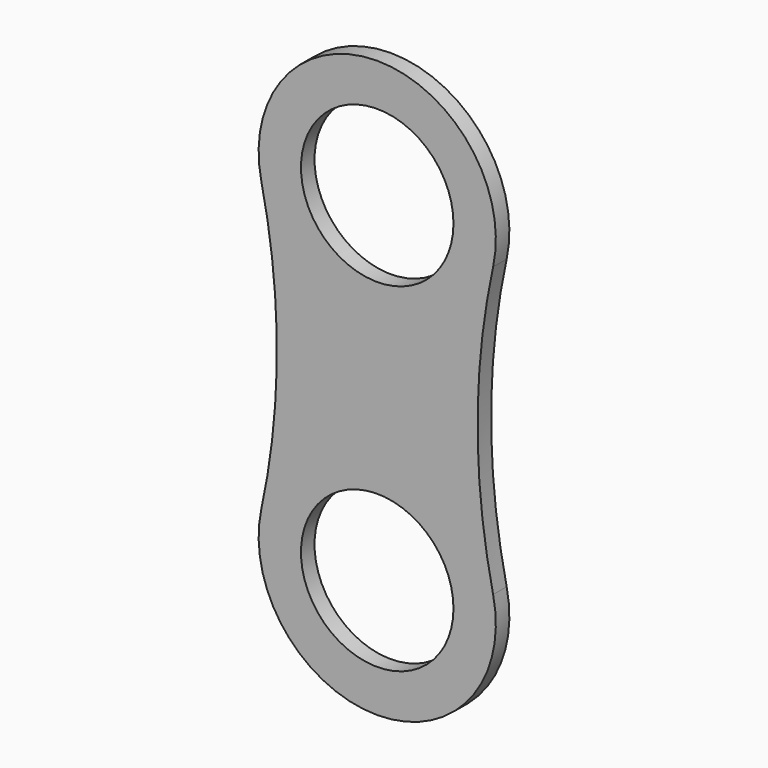
from build123d import *

# Parameters (mm, degrees)
F0_R     = 114.3
F1_DEPTH = 25.4


with BuildPart() as f1:
    # F0 (on Front) → F1 (new body)
    with BuildSketch(Plane.XZ):
        with BuildLine():
            ThreePointArc((173.728947, -256.228031), (150.46579, -40.057818), (173.728947, 176.112394))
            ThreePointArc((173.728947, 176.112394), (0, 391.742182), (-173.728947, 176.112394))
            ThreePointArc((-173.728947, 176.112394), (-150.46579, -40.057818), (-173.728947, -256.228031))
            ThreePointArc((-173.728947, -256.228031), (0, -471.857818), (173.728947, -256.228031))
        make_face()
        with Locations((0, -294.057818)):
            Circle(F0_R, mode=Mode.SUBTRACT)
        with Locations((0, 213.942182)):
            Circle(F0_R, mode=Mode.SUBTRACT)
    extrude(amount=F1_DEPTH)


solid = f1.part
